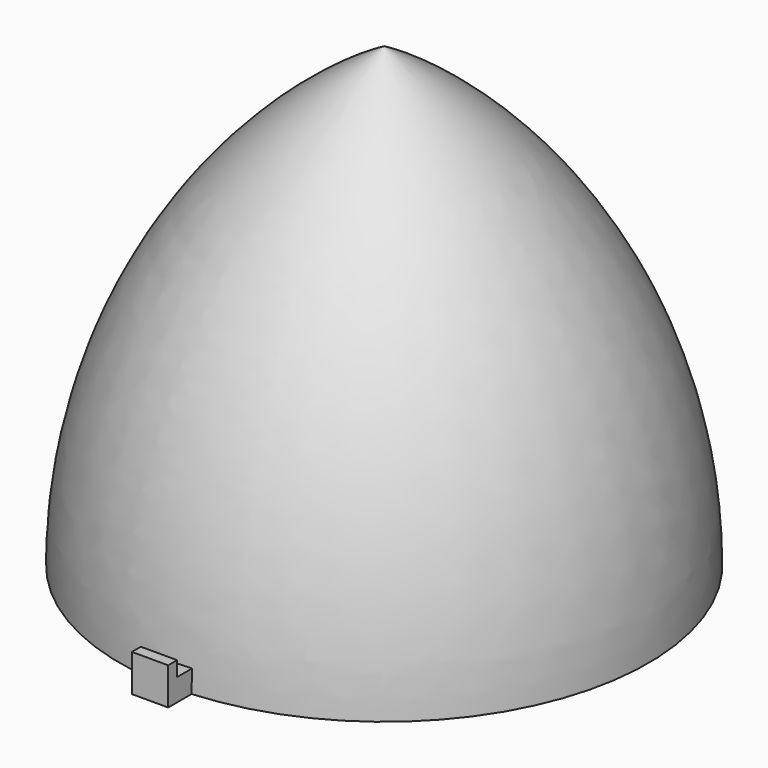
from build123d import *

# Parameters (mm, degrees)
F3_DEPTH = 3
F4_W     = 4.87966
F4_H     = 1.5
F5_DEPTH = 2


with BuildPart() as f1:
    # F0 (on Front) → F1 (revolve)
    with BuildSketch(Plane.XZ):
        with BuildLine():
            ThreePointArc((0, 40.991869), (-25.987804, 15.004065), (-35.5, -20.495935))
            Line((-35.5, -20.495935), (-32.845529, -15.898256))
            ThreePointArc((-32.845529, -15.898256), (-23.82274, 13.754065), (-2.654471, 36.394191))
            Line((-2.654471, 36.394191), (0, 40.991869))
        make_face()
        with BuildLine():
            Line((-35.5, -20.495935), (-33, -20.495935))
            ThreePointArc((-33, -20.495935), (-32.961371, -18.195798), (-32.845529, -15.898256))
            Line((-32.845529, -15.898256), (-35.5, -20.495935))
        make_face()
        with BuildLine():
            ThreePointArc((-2.654471, 36.394191), (-1.336965, 37.256018), (0, 38.08734))
            Line((0, 38.08734), (0, 40.991869))
            Line((0, 40.991869), (-2.654471, 36.394191))
        make_face()
    revolve(axis=Axis((0, 0, 10.247967), (0, 0, -1)))

    # F2 (on face) → F3 (join)
    with BuildSketch(Plane(origin=(0, 0, -20.495935), x_dir=(1, 0, 0), z_dir=(0, 0, -1))):
        with BuildLine():
            Line((2.43983, 34.345327), (2.43983, 39.345327))
            Line((2.43983, 39.345327), (-2.43983, 39.345327))
            Line((-2.43983, 39.345327), (-2.43983, 34.345327))
            ThreePointArc((-2.43983, 34.345327), (-1.220683, 34.410234), (0, 34.431879))
            ThreePointArc((0, 34.431879), (1.220683, 34.410234), (2.43983, 34.345327))
        make_face()
        with BuildLine():
            Line((2.43983, 34.345327), (2.43983, 39.345327))
            Line((2.43983, 39.345327), (-2.43983, 39.345327))
            Line((-2.43983, 39.345327), (-2.43983, 34.345327))
            ThreePointArc((-2.43983, 34.345327), (-1.220683, 34.410234), (0, 34.431879))
            ThreePointArc((0, 34.431879), (1.220683, 34.410234), (2.43983, 34.345327))
        make_face()
    extrude(amount=-F3_DEPTH)

    # F4 (on face) → F5 (join)
    with BuildSketch(Plane.XY.offset(-17.495935)):
        with Locations((0, -38.595327)):
            Rectangle(F4_W, F4_H)
    extrude(amount=F5_DEPTH)


solid = f1.part
